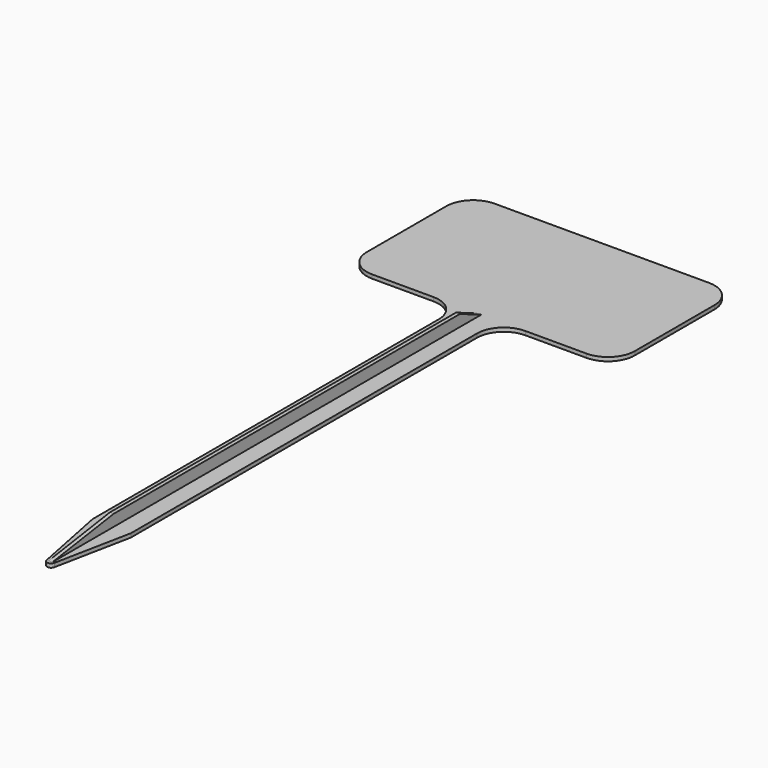
from build123d import *

# Parameters (mm, degrees)
PAD_DEPTH       = 1
PAD001_DEPTH    = 3
POCKET_DEPTH    = 35.501
POCKET001_DEPTH = 35.501


with BuildPart() as part:
    # Sketch → Pad (new body)
    with BuildSketch(Plane.XY):
        with BuildLine():
            Line((7, 0), (63, 0))
            ThreePointArc((70, -7), (67.949747, -2.050253), (63, 0))
            Line((70, -7), (70, -33))
            ThreePointArc((63, -40), (67.949747, -37.949747), (70, -33))
            Line((63, -40), (47, -40))
            ThreePointArc((47, -40), (42.050253, -42.050253), (40, -47))
            Line((40, -47), (40, -160))
            Line((36, -180), (40, -160))
            ThreePointArc((34, -180), (35, -180.819804), (36, -180))
            Line((30, -160), (34, -180))
            Line((30, -47), (30, -160))
            ThreePointArc((30, -47), (27.949747, -42.050253), (23, -40))
            Line((23, -40), (7, -40))
            ThreePointArc((0, -33), (2.050253, -37.949747), (7, -40))
            Line((0, -33), (0, -7))
            ThreePointArc((7, 0), (2.050253, -2.050253), (0, -7))
        make_face()
    extrude(amount=PAD_DEPTH)

    # Sketch001 (on Face18 of Pad) → Pad001 (join)
    with BuildSketch(Plane.XY.offset(1)):
        Polygon((34.5, -180), (35.5, -180), (35.5, -160), (35.5, -47), (35.5, -40), (34.5, -40), (34.5, -47), (34.5, -160), align=None)
    extrude(amount=PAD001_DEPTH)

    # Sketch002 (on Face26 of Pad001) → Pocket (cut, through all)
    with BuildSketch(Plane(origin=(34.5, 0, 0), x_dir=(0, -1, 0), z_dir=(-1, 0, 0))):
        Polygon((160, 4), (180, 1), (180, 4), align=None)
    extrude(amount=-POCKET_DEPTH, mode=Mode.SUBTRACT)

    # Sketch003 (on Face22 of Pocket) → Pocket001 (cut, through all)
    with BuildSketch(Plane(origin=(34.5, 0, 0), x_dir=(0, -1, 0), z_dir=(-1, 0, 0))):
        Polygon((40, 1), (40, 4), (47, 4), align=None)
    extrude(amount=-POCKET001_DEPTH, mode=Mode.SUBTRACT)


solid = part.part
